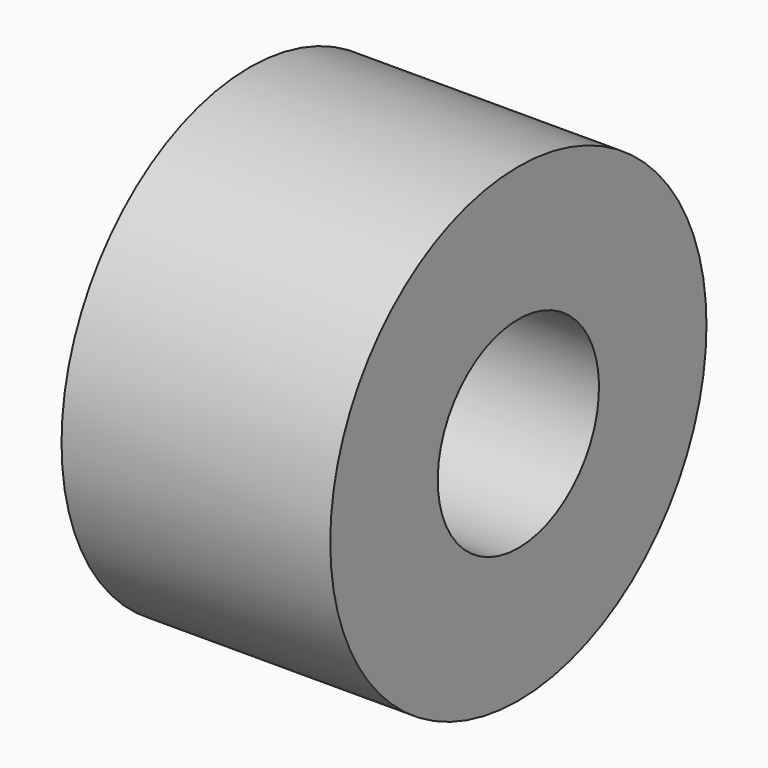
from build123d import *

# Parameters (mm, degrees)
CYLINDER174_R     = 1.5
CYLINDER174_DEPTH = 55
CYLINDER170_R     = 3.5
CYLINDER170_DEPTH = 4


with BuildPart() as cylinder174:
    # Cylinder174 → Cylinder174 (new body)
    with BuildSketch(Plane(origin=(92.7, 72.9, 33.1), x_dir=(0, 0, -1), z_dir=(1, 0, 0))):
        Circle(CYLINDER174_R)
    extrude(amount=CYLINDER174_DEPTH)


with BuildPart() as cut207:
    # Cylinder170 → Cylinder170 (new body)
    with BuildSketch(Plane(origin=(130.8, 72.9, 33.1), x_dir=(0, 0, -1), z_dir=(1, 0, 0))):
        Circle(CYLINDER170_R)
    extrude(amount=CYLINDER170_DEPTH)

    # Cut207: cut Cylinder174
    add(cylinder174.part, mode=Mode.SUBTRACT)


solid = cut207.part
